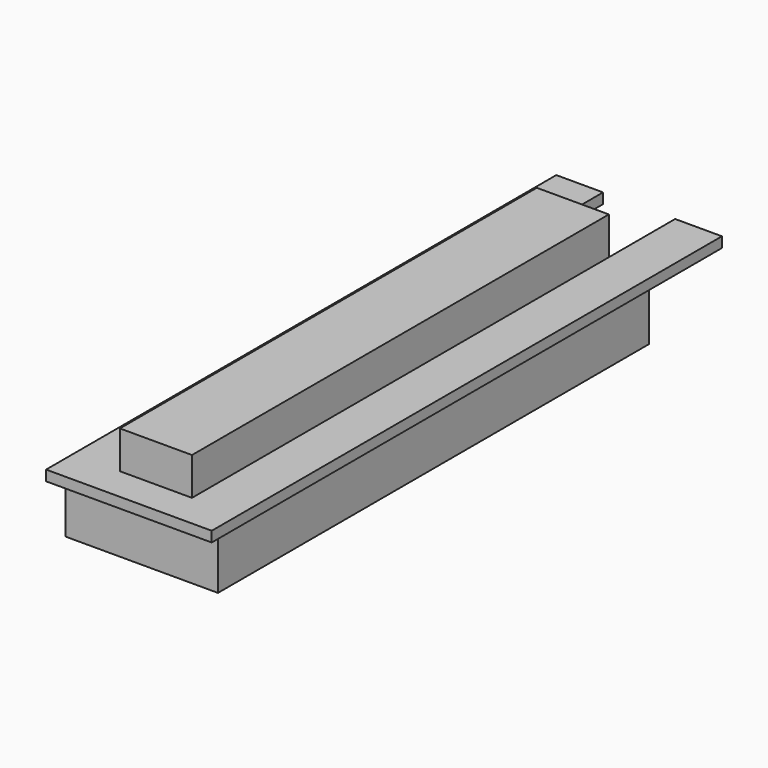
from build123d import *

# Parameters (mm, degrees)
F1_DEPTH = 1.25
F2_W     = 8.7
F2_H     = 62.917138
F3_DEPTH = 5.8
F5_DEPTH = 6.4


with BuildPart() as f1:
    # F0 (on Top) → F1 (new body)
    with BuildSketch(Plane.XY):
        Polygon((-10, -38.5), (10, -38.5), (10, 38.5), (4.35, 38.5), (4.35, 28.5), (-4.35, 28.5), (-4.35, 38.5), (-10, 38.5), align=None)
    extrude(amount=F1_DEPTH)

    # F2 (on face) → F3 (join)
    with BuildSketch(Plane(origin=(0, 0, 0), x_dir=(1, 0, 0), z_dir=(0, 0, -1))):
        with Locations((0, 2.958569)):
            Rectangle(F2_W, F2_H)
    extrude(amount=-F3_DEPTH)

    # F4 (on face) → F5 (join)
    with BuildSketch(Plane(origin=(0, 0, 0), x_dir=(1, 0, 0), z_dir=(0, 0, -1))):
        Polygon((-9.20814, 36.568932), (-9.20814, -28.5), (-4.35, -28.5), (4.35, -28.5), (9.20814, -28.5), (9.20814, 36.568932), align=None)
    extrude(amount=F5_DEPTH)


solid = f1.part
